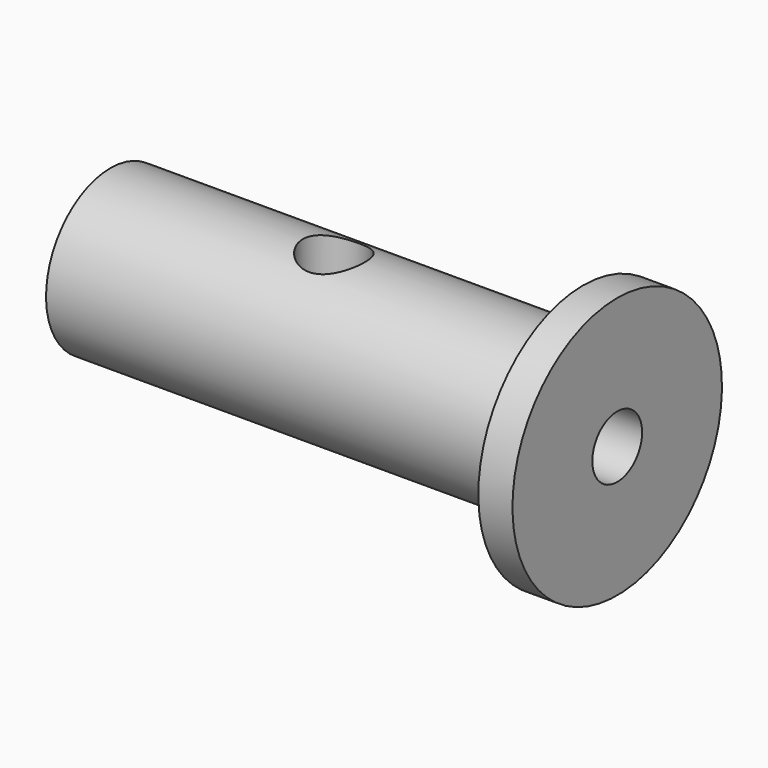
from build123d import *

# Parameters (mm, degrees)
F4_D = 6.35


with BuildPart() as f1:
    # F0 (on Front) → F1 (revolve)
    with BuildSketch(Plane.XZ):
        Polygon((335.9480798244, 44.2520603538), (387.6813861015, 44.2520603538), (387.6813861015, 54.4427894056), (384.1964304447, 54.4427894056), (384.1964304447, 49.292229116), (361.4340424538, 49.292229116), (358.7607592344, 49.292229116), (356.0874760151, 49.292229116), (335.9480798244, 49.292229116), align=None)
    revolve(axis=Axis((367.2038912773, 0, 41.0770603538), (1, 0, 0)))

    # F4 (through all)
    with Locations(Plane.XY.offset(49.292229116)):
        with Locations((358.7607592344, 0)):
            Hole(F4_D / 2)


solid = f1.part
